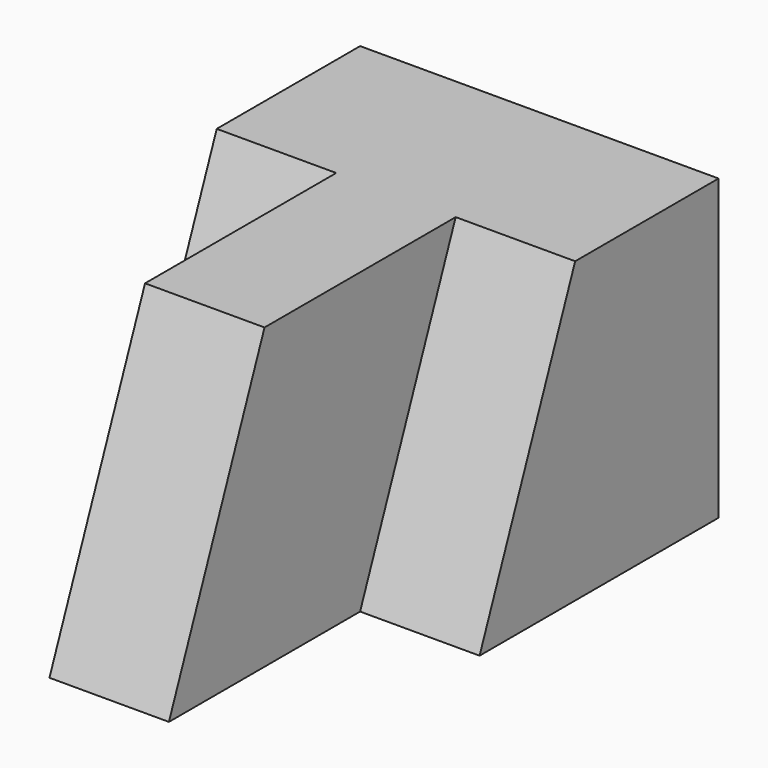
from build123d import *

# Parameters (mm, degrees)
F1_DEPTH = 31.75
F3_DEPTH = 12.7
F5_DEPTH = 12.7
F7_DEPTH = 12.7


with BuildPart() as f1:
    # F0 (on Top) → F1 (new body)
    with BuildSketch(Plane.XY):
        Polygon((0, 31.75), (0, 0), (12.7, 0), (12.7, -25.4), (25.4, -25.4), (25.4, 0), (38.1, 0), (38.1, 31.75), align=None)
    extrude(amount=F1_DEPTH)

    # F2 (on face) → F3 (cut)
    with BuildSketch(Plane(origin=(12.7, 0, 0), x_dir=(0, -1, 0), z_dir=(-1, 0, 0))):
        Polygon((25.4, 31.75), (12.7, 31.75), (25.4, 0), align=None)
    extrude(amount=-F3_DEPTH, mode=Mode.SUBTRACT)

    # F4 (on face) → F5 (cut)
    with BuildSketch(Plane(origin=(0, 0, 0), x_dir=(0, -1, 0), z_dir=(-1, 0, 0))):
        Polygon((0, 31.75), (-12.7, 31.75), (0, 0), align=None)
    extrude(amount=-F5_DEPTH, mode=Mode.SUBTRACT)

    # F6 (on face) → F7 (cut)
    with BuildSketch(Plane.YZ.offset(38.1)):
        Polygon((0, 31.75), (0, 0), (12.7, 31.75), align=None)
    extrude(amount=-F7_DEPTH, mode=Mode.SUBTRACT)


solid = f1.part
